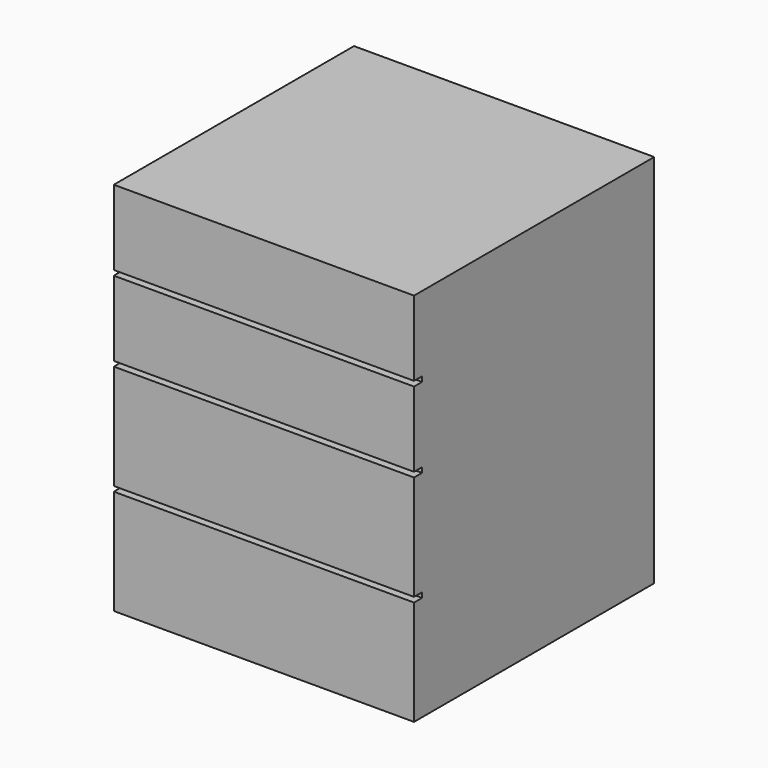
from build123d import *

# Parameters (mm, degrees)
F0_W     = 600
F0_H     = 750
F1_DEPTH = 600
F2_W     = 600
F2_H     = 10
F3_DEPTH = 20


with BuildPart() as f1:
    # F0 (on Right) → F1 (new body)
    with BuildSketch(Plane.YZ):
        with Locations((-300, 375)):
            Rectangle(F0_W, F0_H)
    extrude(amount=F1_DEPTH)

    # F2 (on face) → F3 (cut)
    with BuildSketch(Plane.XZ.offset(600)):
        with Locations((300, 595)):
            Rectangle(F2_W, F2_H)
        with Locations((300, 435)):
            Rectangle(F2_W, F2_H)
        with Locations((300, 215)):
            Rectangle(F2_W, F2_H)
    extrude(amount=-F3_DEPTH, mode=Mode.SUBTRACT)


solid = f1.part
